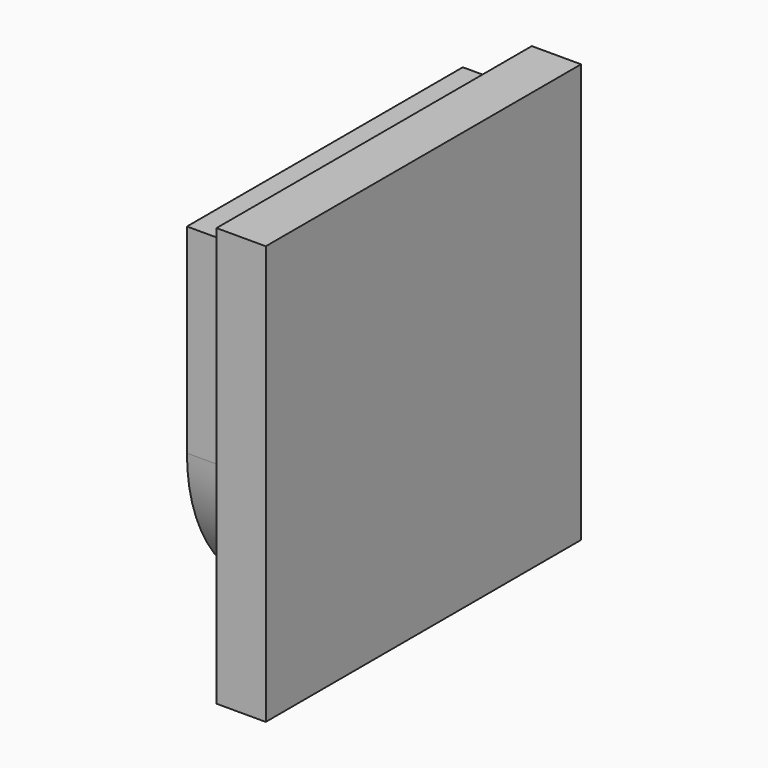
from build123d import *

# Parameters (mm, degrees)
CYLINDER_R           = 3
CYLINDER_DEPTH       = 10
CYLINDER_PITCH_ANGLE = -90
BOX032_W             = 54
BOX032_H             = 14
BOX032_DEPTH         = 15
BOX033_W             = 54
BOX033_H             = 16
BOX033_DEPTH         = 17
FILLET002_R          = 6.9
FILLET003_R          = 6.9
BOX_W                = 4
BOX_H                = 16
BOX_DEPTH            = 17


with BuildPart() as cylinder:
    # Cylinder → Cylinder (new body)
    with BuildSketch(Plane.XY):
        Circle(CYLINDER_R)
    extrude(amount=CYLINDER_DEPTH)


with BuildPart() as cylinder_1:
    # Cylinder pitch: moved
    add(cylinder.part.rotate(Axis((0, 0, 0), (0, 1, 0)), CYLINDER_PITCH_ANGLE))


with BuildPart() as cylinder_2:
    # Cylinder placement: moved
    add(cylinder_1.part.moved(Location((47, 7, -14))))


with BuildPart() as obj1:
    # Box032 → Box032 (new body)
    with BuildSketch(Plane(origin=(-9, 0, -21), x_dir=(1, 0, 0), z_dir=(0, 0, 1))):
        with Locations((27, 7)):
            Rectangle(BOX032_W, BOX032_H)
    extrude(amount=BOX032_DEPTH)


with BuildPart() as fillet003:
    # Box033 → Box033 (new body)
    with BuildSketch(Plane(origin=(-10, -1, -22), x_dir=(1, 0, 0), z_dir=(0, 0, 1))):
        with Locations((27, 8)):
            Rectangle(BOX033_W, BOX033_H)
    extrude(amount=BOX033_DEPTH)

    # Cut001: cut obj1
    add(obj1.part, mode=Mode.SUBTRACT)

    # Fillet002
    fillet002_edges = [fillet003.edges().sort_by_distance(p)[0] for p in [
        (17.5, 0, -21),
    ]]
    fillet(fillet002_edges, radius=FILLET002_R)

    # Fillet003
    fillet003_edges = [fillet003.edges().sort_by_distance(p)[0] for p in [
        (17.5, 14, -21),
    ]]
    fillet(fillet003_edges, radius=FILLET003_R)


with BuildPart() as cap:
    # Box → Box (new body)
    with BuildSketch(Plane(origin=(42, -1, -22), x_dir=(1, 0, 0), z_dir=(0, 0, 1))):
        with Locations((2, 8)):
            Rectangle(BOX_W, BOX_H)
    extrude(amount=BOX_DEPTH)

    # Cut002: cut Fillet003
    add(fillet003.part, mode=Mode.SUBTRACT)


with BuildPart() as cap_1:
    # Cut002 placement: moved
    add(cap.part.moved(Location((4, 0, 0))))

    # Cut003: cut Cylinder
    add(cylinder_2.part, mode=Mode.SUBTRACT)


with BuildPart() as cap_2:
    # Cut003 placement: moved
    add(cap_1.part.moved(Location((-4, 0, 0))))


solid = cap_2.part
